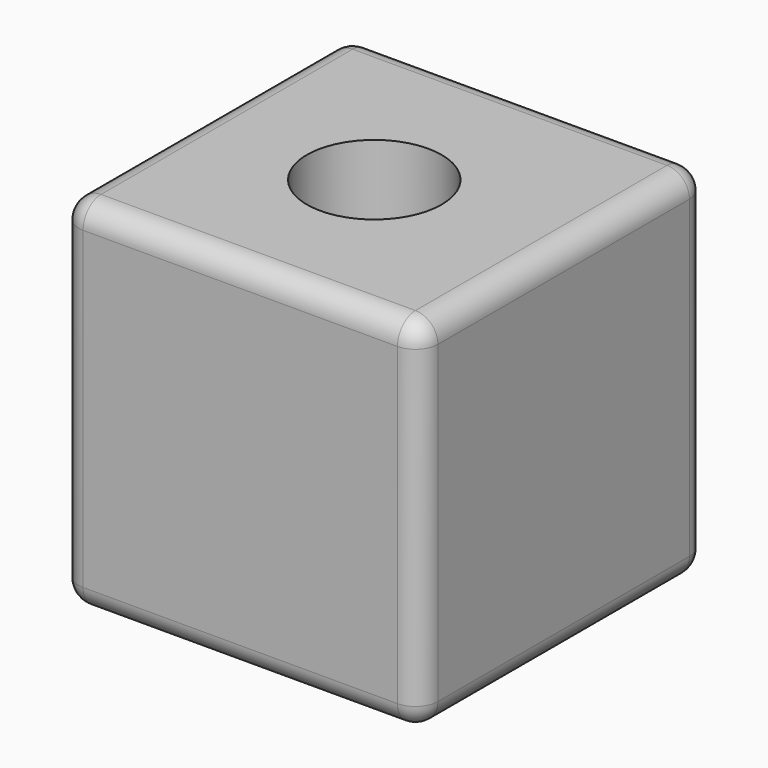
from build123d import *

# Parameters (mm, degrees)
F0_W     = 80
F0_H     = 80
F1_DEPTH = 80
F2_R     = 15
F3_DEPTH = 80.001
F4_R     = 5


with BuildPart() as f1:
    # F0 (on Top) → F1 (new body)
    with BuildSketch(Plane.XY):
        with Locations((1.3716, 17.491502)):
            Rectangle(F0_W, F0_H)
    extrude(amount=F1_DEPTH)

    # F2 (on face) → F3 (cut, through all)
    with BuildSketch(Plane.XY.offset(80)):
        with Locations((0, 16.490143)):
            Circle(F2_R)
    extrude(amount=-F3_DEPTH, mode=Mode.SUBTRACT)

    # F4
    f4_edges = [f1.edges().sort_by_distance(p)[0] for p in [
        (1.3716, 57.491502, 80),
        (1.3716, -22.508498, 80),
        (-38.6284, 17.491502, 80),
        (41.3716, 17.491502, 80),
        (41.3716, 57.491502, 40),
        (41.3716, -22.508498, 40),
        (41.3716, 17.491502, 0),
        (-38.6284, 57.491502, 40),
        (-38.6284, 17.491502, 0),
        (-38.6284, -22.508498, 40),
        (1.3716, 57.491502, 0),
        (1.3716, -22.508498, 0),
    ]]
    fillet(f4_edges, radius=F4_R)


solid = f1.part
